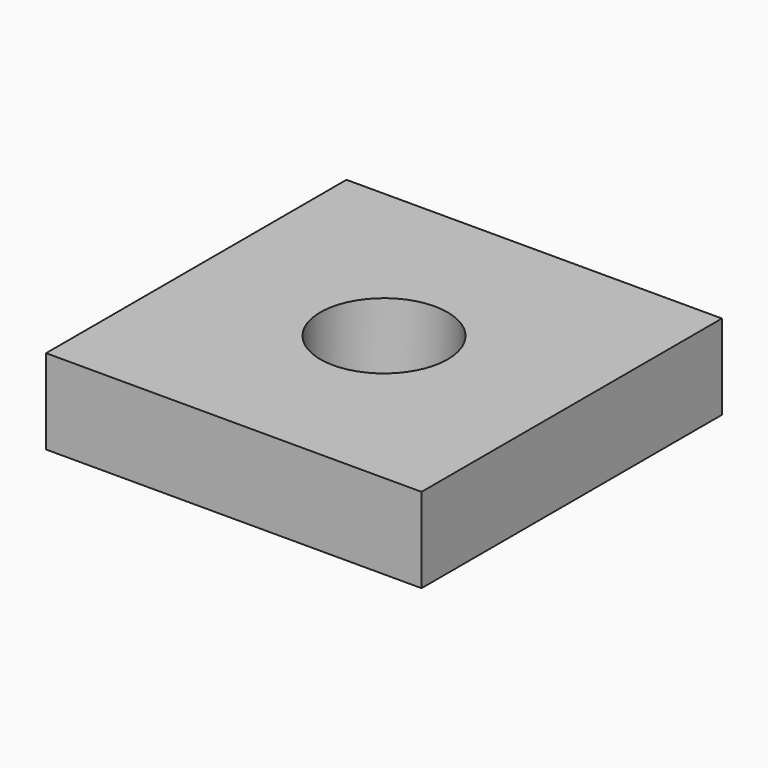
from build123d import *

# Parameters (mm, degrees)
F0_W      = 24.785
F0_H      = 24.785
F0_R      = 4.2045
F1_DEPTH  = 5.6
F1_FACE_W = 24.785
F1_FACE_H = 24.785
F1_FACE_R = 4.2045
F2_DEPTH  = 1.6


with BuildPart() as f1:
    # F0 (on Top) → F1 (new body)
    with BuildSketch(Plane.XY):
        with Locations((-39.635155, 26.570821)):
            Rectangle(F0_W, F0_H)
        with Locations((-39.635155, 26.570821)):
            Circle(F0_R, mode=Mode.SUBTRACT)
    extrude(amount=F1_DEPTH)

    # F1_face (on face) → F2 (join)
    with BuildSketch(Plane(origin=(-39.635155, 26.570821, 5.6), x_dir=(1, 0, 0), z_dir=(0, 0, 1))):
        Rectangle(F1_FACE_W, F1_FACE_H)
        Circle(F1_FACE_R, mode=Mode.SUBTRACT)
    extrude(amount=-F2_DEPTH)


solid = f1.part
